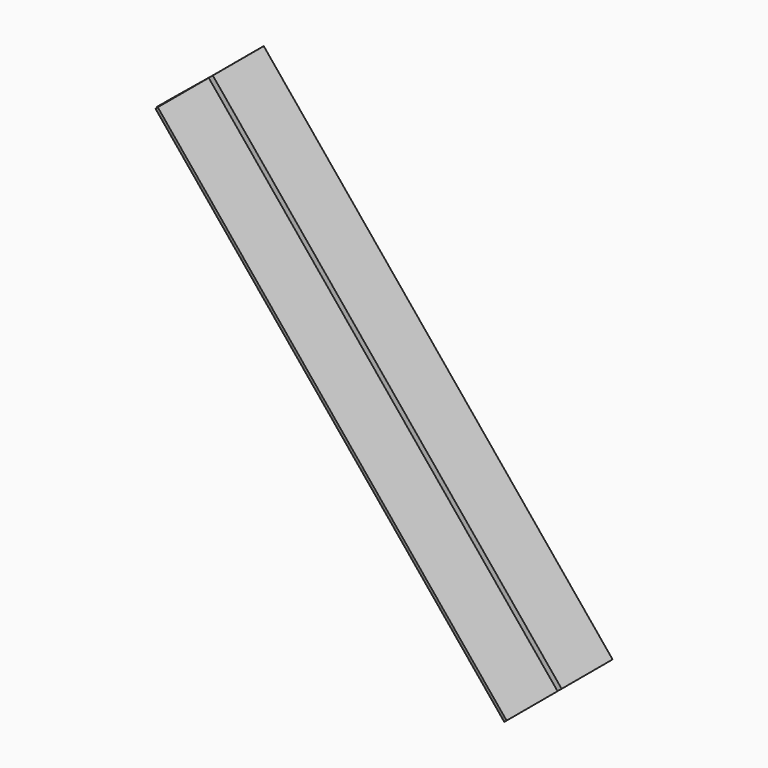
from build123d import *

# Parameters (mm, degrees)
EXTRUDE004_DEPTH           = 648.995554
EXTRUDE004_PLACEMENT_ANGLE = 39.278481


with BuildPart() as lattice:
    # AngleSteel002 → Extrude004 (new body)
    with BuildSketch(Plane(origin=(16.91015, -23.58985, 0), x_dir=(0, 1, 0), z_dir=(0, 0, 1))):
        with BuildLine():
            Line((20.58985, -20.58985), (20.58985, 54.41015))
            Line((20.58985, 54.41015), (18.58985, 54.41015))
            ThreePointArc((18.58985, 54.41015), (15.761423, 53.238577), (14.58985, 50.41015))
            Line((14.58985, 50.41015), (14.58985, -6.08985))
            ThreePointArc((14.58985, -6.08985), (12.100258, -12.100258), (6.08985, -14.58985))
            Line((6.08985, -14.58985), (-50.41015, -14.58985))
            ThreePointArc((-50.41015, -14.58985), (-53.238577, -15.761423), (-54.41015, -18.58985))
            Line((-54.41015, -18.58985), (-54.41015, -20.58985))
            Line((-54.41015, -20.58985), (20.58985, -20.58985))
        make_face()
    extrude(amount=EXTRUDE004_DEPTH)


with BuildPart() as lattice_1:
    # Extrude004 placement: moved
    add(lattice.part.moved(Location((1041.39717, 0, 95.777088))).rotate(Axis((1041.39717, 0, 95.777088), (0, -1, 0)), EXTRUDE004_PLACEMENT_ANGLE))


with BuildPart() as fusion:
    # Mirror002: instance of lattice
    add(lattice_1.part.mirror(Plane(origin=(-100, 0, 0), x_dir=(-1, 0, 0), z_dir=(0, -1, 0))))

    # Fusion: union lattice
    add(lattice_1.part)


solid = fusion.part
